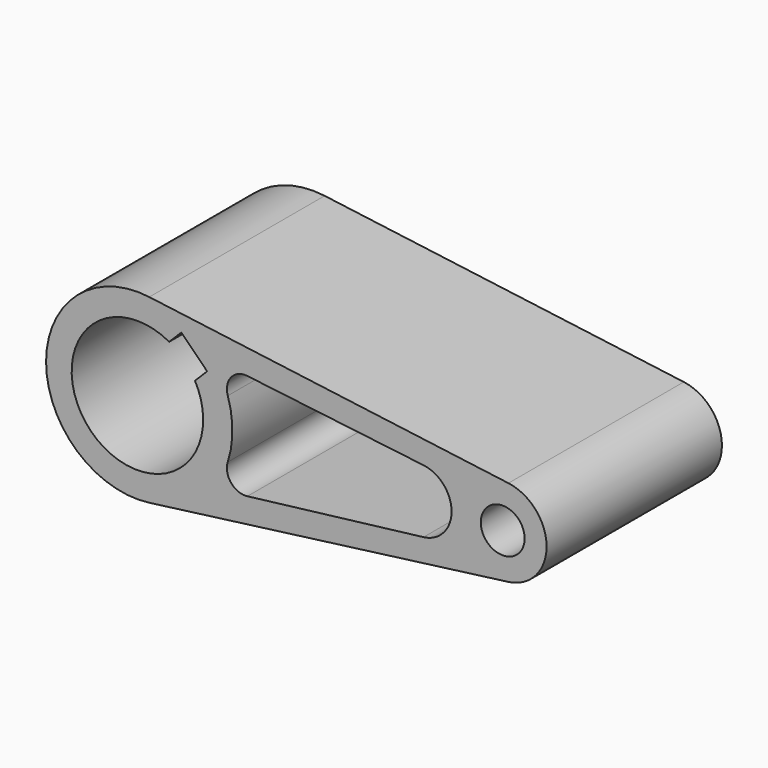
from build123d import *

# Parameters (mm, degrees)
F0_R     = 6
F1_DEPTH = 60


with BuildPart() as f1:
    # F0 (on Front) → F1 (new body)
    with BuildSketch(Plane.XZ):
        with BuildLine():
            Line((101.56, 11.898168), (3.25, 24.78785))
            ThreePointArc((3.25, 24.78785), (-25, 0), (3.25, -24.78785))
            Line((3.25, -24.78785), (101.56, -11.898168))
            ThreePointArc((101.56, -11.898168), (112, 0), (101.56, 11.898168))
        make_face()
        with BuildLine():
            ThreePointArc((24.741209, 7.992032), (25.640743, 12.709027), (30.099134, 14.492831))
            Line((30.099134, 14.492831), (78.32, 8.664209))
            ThreePointArc((78.32, 8.664209), (86, 0), (78.32, -8.664209))
            Line((78.32, -8.664209), (30.099134, -14.492831))
            ThreePointArc((30.099134, -14.492831), (25.640743, -12.709027), (24.741209, -7.992032))
            ThreePointArc((24.741209, -7.992032), (26, 0), (24.741209, 7.992032))
        make_face(mode=Mode.SUBTRACT)
        with BuildLine():
            Line((12.020815, 19.091883), (15.556349, 15.556349))
            Line((15.556349, 15.556349), (19.091883, 12.020815))
            Line((19.091883, 12.020815), (15.762553, 8.691485))
            ThreePointArc((15.762553, 8.691485), (-12.727922, -12.727922), (8.691485, 15.762553))
            Line((8.691485, 15.762553), (12.020815, 19.091883))
        make_face(mode=Mode.SUBTRACT)
        with Locations((100, 0)):
            Circle(F0_R, mode=Mode.SUBTRACT)
    extrude(amount=F1_DEPTH)


solid = f1.part
